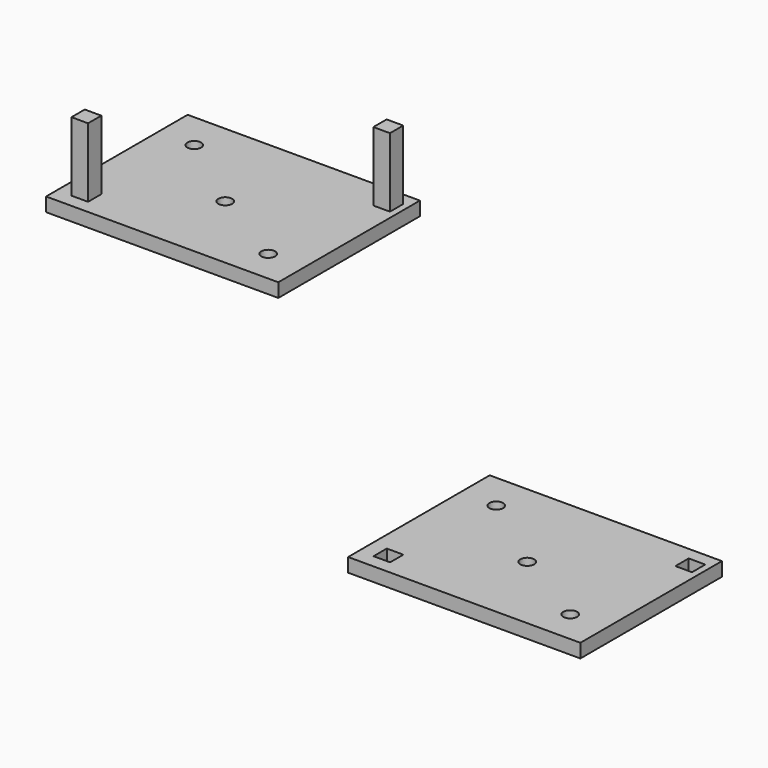
from build123d import *

# Parameters (mm, degrees)
F0_W     = 53.34
F0_H     = 40.64
F0_W_2   = 3.81
F0_H_2   = 3.81
F0_R     = 5.715
F0_R_2   = 15.877972
F0_R_3   = 6.35
F0_R_4   = 1.5875
F1_DEPTH = 3.175
F2_DEPTH = 3.175
F3_DEPTH = 19.05


with BuildPart() as f1:
    # F0 (on Top) → F1 (new body)
    with BuildSketch(Plane.XY):
        with Locations((53.795356, -29.89229)):
            Rectangle(F0_W, F0_H)
        with Locations((32.393763, -45.220239)):
            Rectangle(F0_W_2, F0_H_2, mode=Mode.SUBTRACT)
        with Locations((72.14196, -42.727947)):
            Circle(F0_R, mode=Mode.SUBTRACT)
        with Locations((53.379953, -31.600136)):
            Circle(F0_R_2, mode=Mode.SUBTRACT)
        with Locations((35.3943, -18.013854)):
            Circle(F0_R_3, mode=Mode.SUBTRACT)
        with Locations((77.069087, -14.394265)):
            Rectangle(F0_W_2, F0_H_2, mode=Mode.SUBTRACT)
        with Locations((53.379953, -31.600136)):
            Circle(F0_R_2)
        with Locations((53.379953, -31.600136)):
            Circle(F0_R_4, mode=Mode.SUBTRACT)
        with Locations((72.14196, -42.727947)):
            Circle(F0_R)
        with Locations((72.14196, -42.727947)):
            Circle(F0_R_4, mode=Mode.SUBTRACT)
        with Locations((35.3943, -18.013854)):
            Circle(F0_R_3)
        with Locations((35.3943, -18.013854)):
            Circle(F0_R_4, mode=Mode.SUBTRACT)
    extrude(amount=F1_DEPTH)


with BuildPart() as f2:
    # F0 (on Top) → F2 (new body)
    with BuildSketch(Plane.XY):
        with Locations((-75.97894, 45.610995)):
            Rectangle(F0_W, F0_H)
        with Locations((-97.380533, 30.283046)):
            Rectangle(F0_W_2, F0_H_2, mode=Mode.SUBTRACT)
        with Locations((-57.632336, 32.775338)):
            Circle(F0_R, mode=Mode.SUBTRACT)
        with Locations((-76.394343, 43.903149)):
            Circle(F0_R_2, mode=Mode.SUBTRACT)
        with Locations((-94.379996, 57.489432)):
            Circle(F0_R_3, mode=Mode.SUBTRACT)
        with Locations((-52.705209, 61.109021)):
            Rectangle(F0_W_2, F0_H_2, mode=Mode.SUBTRACT)
        with Locations((-57.632336, 32.775338)):
            Circle(F0_R)
        with Locations((-57.632336, 32.775338)):
            Circle(F0_R_4, mode=Mode.SUBTRACT)
        with Locations((-76.394343, 43.903149)):
            Circle(F0_R_2)
        with Locations((-76.394343, 43.903149)):
            Circle(F0_R_4, mode=Mode.SUBTRACT)
        with Locations((-94.379996, 57.489432)):
            Circle(F0_R_3)
        with Locations((-94.379996, 57.489432)):
            Circle(F0_R_4, mode=Mode.SUBTRACT)
    extrude(amount=F2_DEPTH)

    # F0 (on Top) → F3 (join)
    with BuildSketch(Plane.XY):
        with Locations((-97.380533, 30.283046)):
            Rectangle(F0_W_2, F0_H_2)
        with Locations((-52.705209, 61.109021)):
            Rectangle(F0_W_2, F0_H_2)
    extrude(amount=F3_DEPTH)


solid = Compound([f1.part, f2.part])
